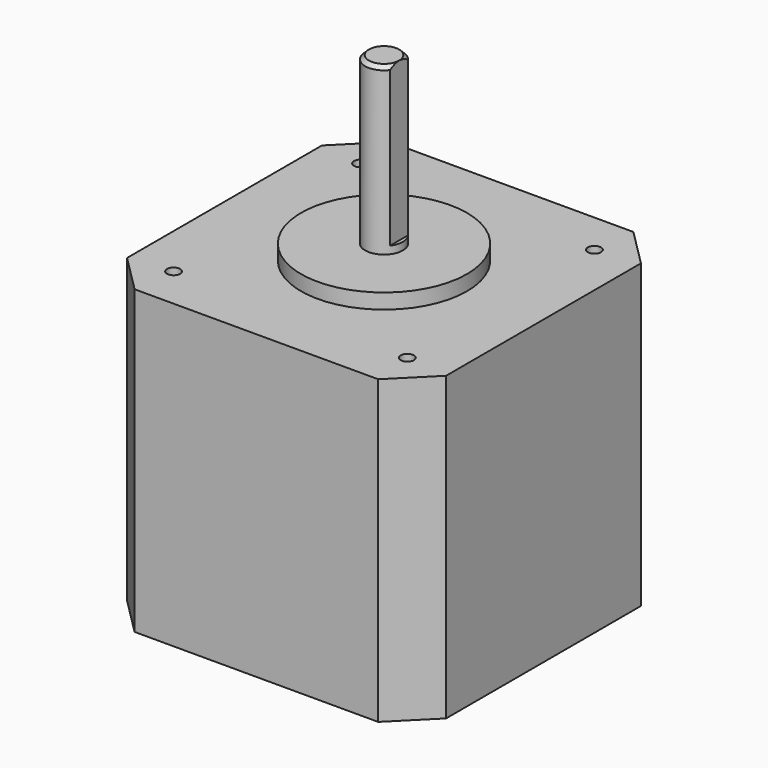
from build123d import *

# Parameters (mm, degrees)
SKETCH_W          = 42.3
SKETCH_H          = 42.3
PAD_DEPTH         = 40
SKETCH001_R       = 11
PAD001_DEPTH      = 2
SKETCH002_R       = 2.5
PAD002_DEPTH      = 24
CHAMFER_SIZE      = 0.5
SKETCH003_W       = 0.5
SKETCH003_H       = 21
POCKET_DEPTH      = 21.151
POCKET_DEPTH_BACK = 21.151
SKETCH004_R       = 0.875
HOLE_DEPTH        = 3.474247
HOLE_TIPS_R       = 0.875
CHAMFER001_SIZE   = 5


with BuildPart() as part:
    # Sketch → Pad (new body)
    with BuildSketch(Plane.XY):
        Rectangle(SKETCH_W, SKETCH_H)
    extrude(amount=PAD_DEPTH)

    # Sketch001 (on Face6 of Pad) → Pad001 (join)
    with BuildSketch(Plane.XY.offset(40)):
        Circle(SKETCH001_R)
    extrude(amount=PAD001_DEPTH)

    # Sketch002 (on Face5 of Pad001) → Pad002 (join)
    with BuildSketch(Plane.XY.offset(40)):
        Circle(SKETCH002_R)
    extrude(amount=PAD002_DEPTH)

    # Chamfer
    chamfer_edges = [part.edges().sort_by_distance(p)[0] for p in [
        (-2.5, 0, 64),
    ]]
    chamfer(chamfer_edges, length=CHAMFER_SIZE)

    # Sketch003 → Pocket (cut, two sides)
    with BuildSketch(Plane.XZ) as pocket_sk:
        with Locations((2.25, 53.5)):
            Rectangle(SKETCH003_W, SKETCH003_H)
    extrude(amount=-POCKET_DEPTH, mode=Mode.SUBTRACT)
    extrude(pocket_sk.sketch, amount=POCKET_DEPTH_BACK, mode=Mode.SUBTRACT)

    # Sketch004 (on Face8 of Pocket) → Hole (cut)
    with BuildSketch(Plane.XY.offset(40)):
        with Locations((15.5, -15.5)):
            Circle(SKETCH004_R)
        with Locations((15.5, 15.5)):
            Circle(SKETCH004_R)
        with Locations((-15.5, 15.5)):
            Circle(SKETCH004_R)
        with Locations((-15.5, -15.5)):
            Circle(SKETCH004_R)
    extrude(amount=-HOLE_DEPTH, mode=Mode.SUBTRACT)

    # Hole tips → Hole tip 1 section 0
    with BuildSketch(Plane.XY.offset(36.525753), mode=Mode.PRIVATE) as hole_tip_1_s0:
        with Locations((15.5, -15.5)):
            Circle(HOLE_TIPS_R)
    loft([hole_tip_1_s0.sketch, Vertex(15.5, -15.5, 36)], mode=Mode.SUBTRACT)

    # Hole tips → Hole tip 2 section 0
    with BuildSketch(Plane.XY.offset(36.525753), mode=Mode.PRIVATE) as hole_tip_2_s0:
        with Locations((15.5, 15.5)):
            Circle(HOLE_TIPS_R)
    loft([hole_tip_2_s0.sketch, Vertex(15.5, 15.5, 36)], mode=Mode.SUBTRACT)

    # Hole tips → Hole tip 3 section 0
    with BuildSketch(Plane.XY.offset(36.525753), mode=Mode.PRIVATE) as hole_tip_3_s0:
        with Locations((-15.5, 15.5)):
            Circle(HOLE_TIPS_R)
    loft([hole_tip_3_s0.sketch, Vertex(-15.5, 15.5, 36)], mode=Mode.SUBTRACT)

    # Hole tips → Hole tip 4 section 0
    with BuildSketch(Plane.XY.offset(36.525753), mode=Mode.PRIVATE) as hole_tip_4_s0:
        with Locations((-15.5, -15.5)):
            Circle(HOLE_TIPS_R)
    loft([hole_tip_4_s0.sketch, Vertex(-15.5, -15.5, 36)], mode=Mode.SUBTRACT)

    # Chamfer001
    chamfer001_edges = [part.edges().sort_by_distance(p)[0] for p in [
        (21.15, -21.15, 20),
        (21.15, 21.15, 20),
        (-21.15, -21.15, 20),
        (-21.15, 21.15, 20),
    ]]
    chamfer(chamfer001_edges, length=CHAMFER001_SIZE)


solid = part.part
